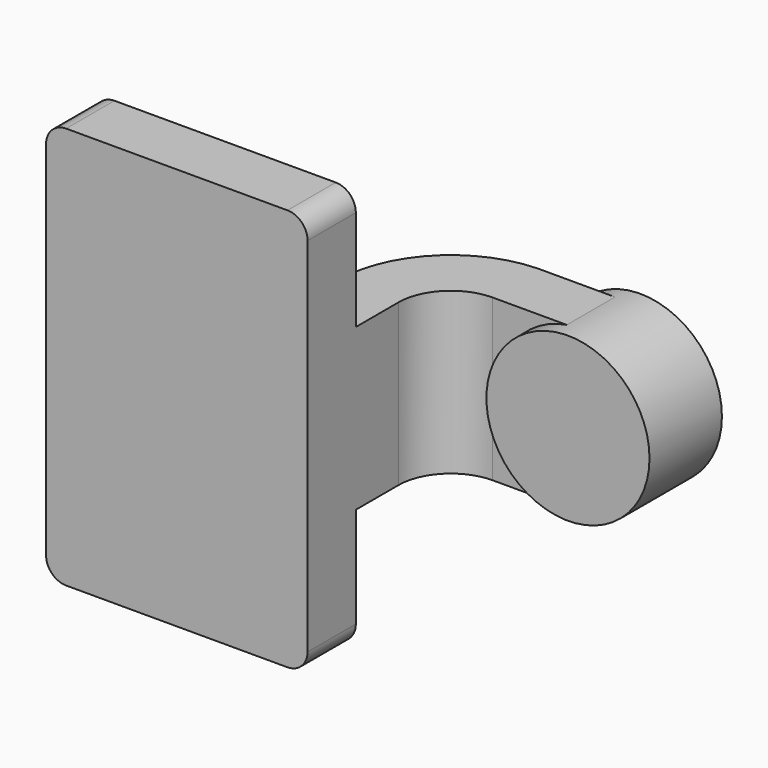
from build123d import *

# Parameters (mm, degrees)
F1_DEPTH = 63.5
F0_W     = 25.0534382343
F0_H     = 19.05
F2_DEPTH = 25.4
F3_DEPTH = 7.9375
F5_R     = 6.35


with BuildPart() as f1:
    # F0 (on Top) → F1 (new body, symmetric)
    with BuildSketch(Plane.XY):
        Polygon((41.275, -9.525), (41.275, 9.525), (22.225, 9.525), (-41.275, 9.525), (-41.275, -9.525), align=None)
    extrude(amount=F1_DEPTH, both=True)

    # F0 (on Top) → F2 (join, symmetric)
    with BuildSketch(Plane.XY):
        with Locations((72.8517191172, 52.4002)):
            Rectangle(F0_W, F0_H)
        with BuildLine():
            Line((22.225, 9.525), (41.275, 9.525))
            Line((41.275, 9.525), (41.275, 26.3652))
            ThreePointArc((41.275, 26.3652), (46.1106670426, 38.0395329574), (57.785, 42.8752))
            Line((57.785, 42.8752), (60.325, 42.8752))
            Line((60.325, 42.8752), (60.325, 61.9252))
            Line((60.325, 61.9252), (57.785, 61.9252))
            add(Edge.make_bspline(
                [(56.4696013906, 61.9008627418), (56.9092910468, 61.9116915586), (57.3477786791, 61.9198078997), (57.785, 61.9252)],
                knots=[110.7361578147, 110.7361578147, 110.7361578147, 110.7361578147, 112.0654476636, 112.0654476636, 112.0654476636, 112.0654476636], degree=3))
            ThreePointArc((56.4696013906, 61.9008627418), (32.1794422581, 51.0404712797), (22.225, 26.3652))
            Line((22.225, 26.3652), (22.225, 9.525))
        make_face()
    extrude(amount=F2_DEPTH, both=True)

    # F0 (on Top) → F3 (join, symmetric)
    with BuildSketch(Plane.XY):
        with BuildLine():
            Line((-41.275, 9.525), (22.225, 9.525))
            Line((22.225, 9.525), (22.225, 26.3652))
            ThreePointArc((22.225, 26.3652), (32.1794422581, 51.0404712797), (56.4696013906, 61.9008627418))
            add(Edge.make_bspline(
                [(-41.275, 9.525), (-25.1285349977, 41.2729627023), (19.8413647419, 60.9987708748), (56.4696013906, 61.9008627418)],
                knots=[0, 0, 0, 0, 110.7361578147, 110.7361578147, 110.7361578147, 110.7361578147], degree=3))
        make_face()
    extrude(amount=F3_DEPTH, both=True)

    # F0 (on Top) → F4 (revolve)
    with BuildSketch(Plane.XY):
        Polygon((85.3784382343, 61.9252), (85.3784382343, 42.8752), (85.3784382343, 38.1), (111.125, 38.1), (111.125, 66.675), (85.3784382343, 66.675), align=None)
    revolve(axis=Axis((85.3784382343, 52.3875, 0), (0, -1, 0)))

    # F5
    f5_edges = [f1.edges().sort_by_distance(p)[0] for p in [
        (41.275, 0, 63.5),
        (-41.275, 0, 63.5),
        (41.275, 0, -63.5),
        (-41.275, 0, -63.5),
    ]]
    fillet(f5_edges, radius=F5_R)


solid = f1.part
